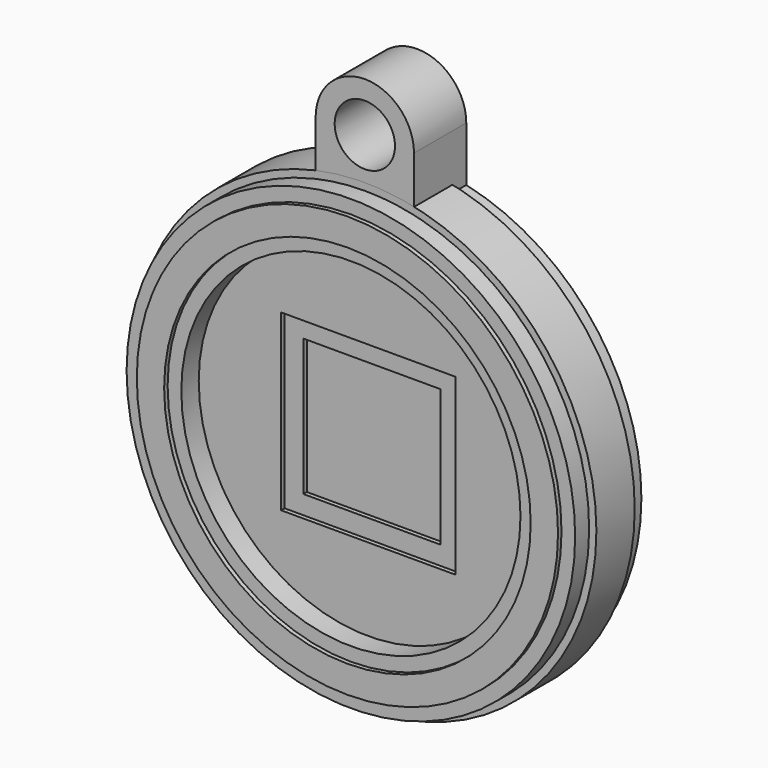
from build123d import *

# Parameters (mm, degrees)
F0_R      = 65.3866528966
F0_R_2    = 49.276969373
F1_DEPTH  = 12.7
F2_DEPTH  = 5.08
F3_R      = 65.3866528966
F3_R_2    = 49.4409677946
F4_DEPTH  = 6.35
F6_DEPTH  = 1.27
F8_DEPTH  = 1.27
F10_DEPTH = 3.81
F11_W     = 6.35
F11_H     = 6.35
F11_W_2   = 12.7
F11_H_2   = 12.7
F12_DEPTH = 1.27
F14_DEPTH = 1.27
F16_DEPTH = 6.35
F17_R     = 8.7947542669
F18_DEPTH = 19.05
F19_W     = 13.97
F19_H     = 2.1709432293


with BuildPart() as f1:
    # F0 (on Front) → F1 (new body)
    with BuildSketch(Plane.XZ):
        Circle(F0_R)
        Circle(F0_R_2, mode=Mode.SUBTRACT)
        Circle(F0_R_2)
    extrude(amount=F1_DEPTH)

    # F0 (on Front) → F2 (join)
    with BuildSketch(Plane.XZ):
        Circle(F0_R)
        Circle(F0_R_2, mode=Mode.SUBTRACT)
    extrude(amount=-F2_DEPTH)

    # F3 (on face) → F4 (join)
    with BuildSketch(Plane.XZ.offset(12.7)):
        Circle(F3_R)
        Circle(F3_R_2, mode=Mode.SUBTRACT)
    extrude(amount=F4_DEPTH)

    # F5 (on face) → F6 (join)
    with BuildSketch(Plane.XZ.offset(19.05)):
        with BuildLine():
            ThreePointArc((61.4002316211, 0), (43.4165201457, 43.4165201457), (0, 61.4002316211))
            ThreePointArc((0, 61.4002316211), (-43.4165201457, -43.4165201457), (61.4002316211, 0))
        make_face()
        with BuildLine():
            ThreePointArc((53.4273890701, 0), (-37.7788691126, -37.7788691126), (0, 53.4273890701))
            ThreePointArc((0, 53.4273890701), (37.7788691126, 37.7788691126), (53.4273890701, 0))
        make_face(mode=Mode.SUBTRACT)
    extrude(amount=F6_DEPTH)

    # F7 (on face) → F8 (join)
    with BuildSketch(Plane(origin=(0, 5.08, 0), x_dir=(-1, 0, 0), z_dir=(0, 1, 0))):
        with BuildLine():
            ThreePointArc((61.3592320157, 0), (43.3875290467, 43.3875290467), (0, 61.3592320157))
            ThreePointArc((0, 61.3592320157), (-43.3875290467, -43.3875290467), (61.3592320157, 0))
        make_face()
        with BuildLine():
            ThreePointArc((53.3043902539, 0), (-37.6918958156, -37.6918958156), (0, 53.3043902539))
            ThreePointArc((0, 53.3043902539), (37.6918958156, 37.6918958156), (53.3043902539, 0))
        make_face(mode=Mode.SUBTRACT)
    extrude(amount=F8_DEPTH)

    # F9 (on face) → F10 (join)
    with BuildSketch(Plane.XZ):
        Polygon((7.9319217403, 12.3692400979), (6.3765081577, 0), (3.1882540789, -25.35421215), (9.2441895977, -26.4890752733), (12.3492386192, -3.2012101728), (14.6780256182, -9.9935047328), (21.2762542069, -11.9341602549), (25.6818294937, -5.5471150812), (22.8443143439, -28.1121175272), (29.0504059829, -28.8925242251), (33.8158489017, 9.0040949788), (25.9338282049, 9.9952472374), (19.9177954346, 0), (15.7019969323, 11.3921648183), align=None)
        Polygon((-7.9377657239, -12.415706271), (-6.376509089, 0), (-3.1882545445, 25.35421215), (-17.9323829615, 27.2082644137), (-26.0757394135, 22.609507665), (-29.3252519459, -3.2318512921), (-24.1350829601, -9.7994385287), align=None)
        Polygon((-19.0893802792, 19.1163290292), (-10.9386276454, 19.1163290292), (-14.0436757356, -4.7537344508), (-21.6811935348, -1.4947552551), align=None, mode=Mode.SUBTRACT)
    extrude(amount=-F10_DEPTH)

    # F11 (on face) → F12 (cut)
    with BuildSketch(Plane.XZ.offset(12.7)):
        Polygon((-25.4, 12.7), (-19.05, 12.7), (-19.05, 19.05), (-12.7, 19.05), (-12.7, 25.4), (-25.4, 25.4), align=None)
        with Locations((-15.875, 15.875)):
            Rectangle(F11_W, F11_H)
        with Locations((6.35, 15.875)):
            Rectangle(F11_W_2, F11_H)
        with Locations((6.35, 22.225)):
            Rectangle(F11_W_2, F11_H)
        with Locations((-6.35, 22.225)):
            Rectangle(F11_W_2, F11_H)
        with Locations((-6.35, 15.875)):
            Rectangle(F11_W_2, F11_H)
        with Locations((-6.35, 6.35)):
            Rectangle(F11_W_2, F11_H_2)
        with Locations((-15.875, 6.35)):
            Rectangle(F11_W, F11_H_2)
        with Locations((-22.225, 6.35)):
            Rectangle(F11_W, F11_H_2)
        with Locations((-22.225, -6.35)):
            Rectangle(F11_W, F11_H_2)
        with Locations((-15.875, -6.35)):
            Rectangle(F11_W, F11_H_2)
        with Locations((-6.35, -6.35)):
            Rectangle(F11_W_2, F11_H_2)
        with Locations((6.35, -6.35)):
            Rectangle(F11_W_2, F11_H_2)
        with Locations((6.35, 6.35)):
            Rectangle(F11_W_2, F11_H_2)
        with Locations((15.875, 6.35)):
            Rectangle(F11_W, F11_H_2)
        with Locations((22.225, 6.35)):
            Rectangle(F11_W, F11_H_2)
        Polygon((12.7, 25.4), (12.7, 19.05), (19.05, 19.05), (19.05, 12.7), (25.4, 12.7), (25.4, 25.4), align=None)
        with Locations((15.875, 15.875)):
            Rectangle(F11_W, F11_H)
        with Locations((15.875, -6.35)):
            Rectangle(F11_W, F11_H_2)
        with Locations((22.225, -6.35)):
            Rectangle(F11_W, F11_H_2)
        with Locations((15.875, -15.875)):
            Rectangle(F11_W, F11_H)
        with Locations((6.35, -15.875)):
            Rectangle(F11_W_2, F11_H)
        with Locations((-6.35, -15.875)):
            Rectangle(F11_W_2, F11_H)
        with Locations((-15.875, -15.875)):
            Rectangle(F11_W, F11_H)
        Polygon((-19.05, -19.05), (-19.05, -12.7), (-25.4, -12.7), (-25.4, -25.4), (-12.7, -25.4), (-12.7, -19.05), align=None)
        with Locations((-6.35, -22.225)):
            Rectangle(F11_W_2, F11_H)
        with Locations((6.35, -22.225)):
            Rectangle(F11_W_2, F11_H)
        Polygon((25.4, -12.7), (19.05, -12.7), (19.05, -19.05), (12.7, -19.05), (12.7, -25.4), (25.4, -25.4), align=None)
    extrude(amount=-F12_DEPTH, mode=Mode.SUBTRACT)

    # F13 (on face) → F14 (cut)
    with BuildSketch(Plane.XZ.offset(11.43)):
        Polygon((19.9583778158, 19.9491092935), (-19.9491092935, 19.9491092935), (19.9583778158, -19.9583778158), align=None)
        Polygon((19.9583778158, -19.9583778158), (-19.9491092935, 19.9491092935), (-19.9491092935, -19.9583778158), align=None)
    extrude(amount=-F14_DEPTH, mode=Mode.SUBTRACT)

    # F15 (on face) → F16 (join)
    with BuildSketch(Plane.XZ):
        with BuildLine():
            Line((9.1108540073, 18.9562831074), (34.1474637389, 15.3051111847))
            ThreePointArc((34.1474637389, 15.3051111847), (15.1689291883, 36.0320480212), (-12.7061712908, 39.6054858053))
            Line((-12.7061712908, 39.6054858053), (-14.6217672154, 32.5177796185))
            Line((-14.6217672154, 32.5177796185), (4.6772868372, 27.301819995))
            Line((4.6772868372, 27.301819995), (9.1108540073, 18.9562831074))
        make_face()
        with BuildLine():
            Line((-10.4489978403, -19.6418240666), (-31.0520436615, -14.947460033))
            Line((-31.0520436615, -14.947460033), (-37.6676143577, -13.4401150798))
            ThreePointArc((-37.6676143577, -13.4401150798), (-17.5097623108, -37.2539959677), (13.6029810031, -39.585760444))
            Line((13.6029810031, -39.585760444), (14.8484101519, -33.7249152362))
            Line((14.8484101519, -33.7249152362), (-6.0154320672, -29.2913503945))
            Line((-6.0154320672, -29.2913503945), (-10.4489978403, -19.6418240666))
        make_face()
    extrude(amount=-F16_DEPTH)

    # F17 (on face) → F18 (join)
    with BuildSketch(Plane(origin=(0, 5.08, 0), x_dir=(-1, 0, 0), z_dir=(0, 1, 0))):
        with BuildLine():
            ThreePointArc((1.22e-08, 65.3866528966), (10.1356111467, 69.5849604991), (14.3339187405, 79.7205716372))
            ThreePointArc((14.3339187405, 79.7205716372), (0, 94.0544903777), (-14.3339187405, 79.7205716372))
            ThreePointArc((-14.3339187405, 79.7205716372), (-10.1356111381, 69.5849604904), (1.22e-08, 65.3866528966))
        make_face()
        with Locations((0, 79.7205716372)):
            Circle(F17_R, mode=Mode.SUBTRACT)
        with BuildLine():
            Line((14.3339187405, 63.7961844514), (14.3339187405, 79.7205716372))
            ThreePointArc((14.3339187405, 79.7205716372), (10.1356111467, 69.5849604991), (1.22e-08, 65.3866528966))
            ThreePointArc((1.22e-08, 65.3866528966), (7.2109433621, 64.9878194191), (14.3339187405, 63.7961844514))
        make_face()
        with BuildLine():
            ThreePointArc((1.22e-08, 65.3866528966), (-10.1356111381, 69.5849604904), (-14.3339187405, 79.7205716372))
            Line((-14.3339187405, 79.7205716372), (-14.3339187405, 63.7961844514))
            ThreePointArc((-14.3339187405, 63.7961844514), (-7.21094335, 64.9878194204), (1.22e-08, 65.3866528966))
        make_face()
    extrude(amount=-F18_DEPTH)


with BuildPart() as f20:
    # F19 (on face) → F20 (revolve)
    with BuildSketch(Plane(origin=(-14.3339187405, 0, 0), x_dir=(0, -1, 0), z_dir=(-1, 0, 0))):
        with Locations((6.985, 64.8816560661)):
            Rectangle(F19_W, F19_H)
    revolve(axis=Axis((0, 6.35, 0), (0, -1, 0)))


solid = Compound([f1.part, f20.part])
